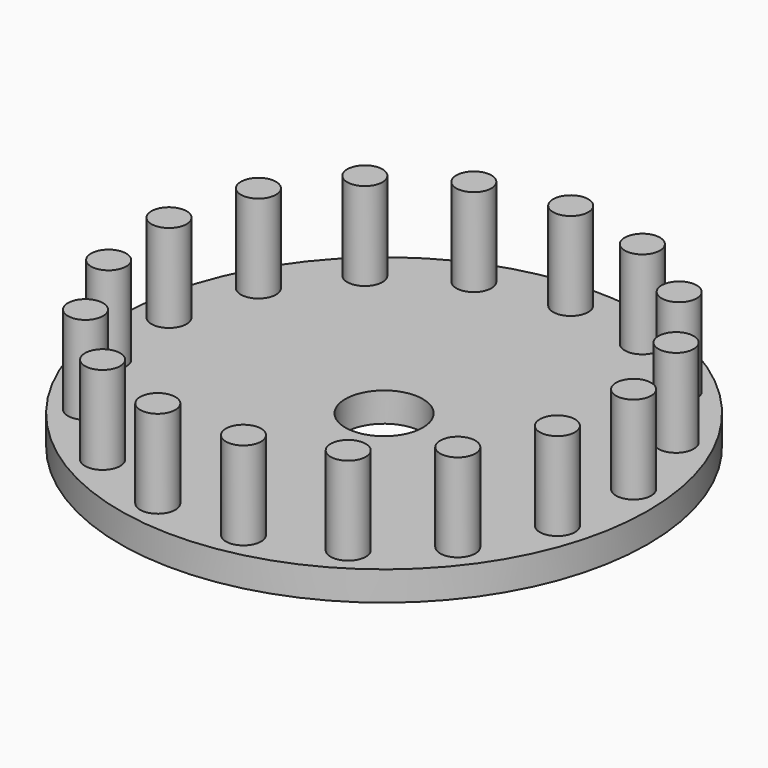
from build123d import *

# Parameters (mm, degrees)
F0_R     = 22.5
F0_R_2   = 3.302
F1_DEPTH = 2.5
F2_R     = 1.5
F3_DEPTH = 7.5


with BuildPart() as f1:
    # F0 (on Top) → F1 (new body)
    with BuildSketch(Plane.XY):
        Circle(F0_R)
        Circle(F0_R_2, mode=Mode.SUBTRACT)
    extrude(amount=F1_DEPTH)

    # F2 (on face) → F3 (join)
    with BuildSketch(Plane.XY.offset(2.5)):
        with Locations((0, 19.88579)):
            Circle(F2_R)
        with Locations((-7.183576, 18.542947)):
            Circle(F2_R)
        with Locations((-13.39697, 14.695776)):
            Circle(F2_R)
        with Locations((-17.801029, 8.863859)):
            Circle(F2_R)
        with Locations((-19.800961, 1.834829)):
            Circle(F2_R)
        with Locations((-19.126663, -5.442005)):
            Circle(F2_R)
        with Locations((-15.869203, -11.983866)):
            Circle(F2_R)
        with Locations((-10.46852, -16.90724)):
            Circle(F2_R)
        with Locations((-3.654004, -19.547197)):
            Circle(F2_R)
        with Locations((3.654004, -19.547197)):
            Circle(F2_R)
        with Locations((10.46852, -16.90724)):
            Circle(F2_R)
        with Locations((15.869203, -11.983866)):
            Circle(F2_R)
        with Locations((19.126663, -5.442005)):
            Circle(F2_R)
        with Locations((19.800961, 1.834829)):
            Circle(F2_R)
        with Locations((17.801029, 8.863859)):
            Circle(F2_R)
        with Locations((13.39697, 14.695776)):
            Circle(F2_R)
        with Locations((7.183576, 18.542947)):
            Circle(F2_R)
    extrude(amount=F3_DEPTH)


solid = f1.part
